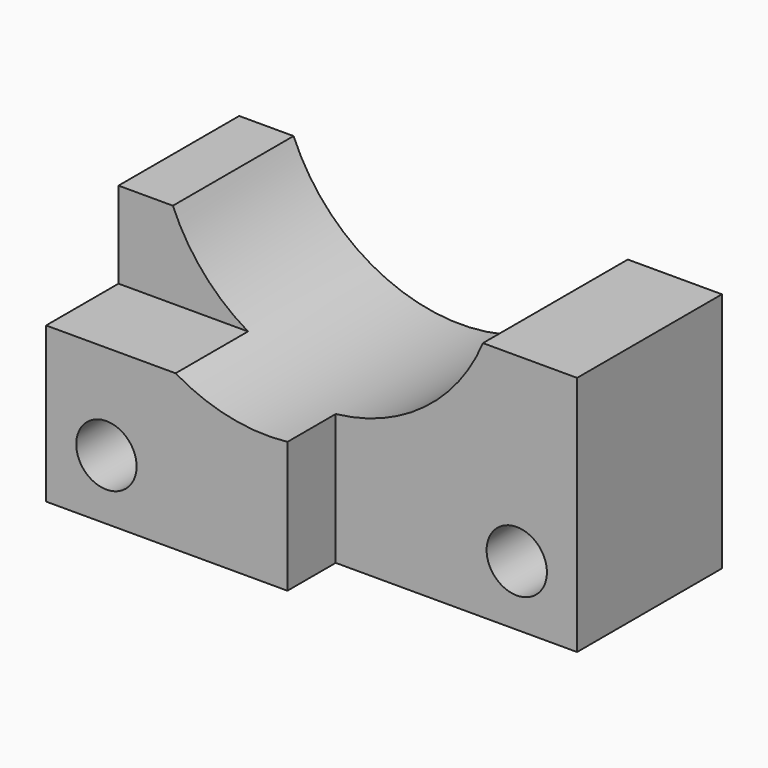
from build123d import *

# Parameters (mm, degrees)
F0_R     = 5
F1_DEPTH = 40
F2_R     = 5
F3_DEPTH = 10
F5_DEPTH = 15


with BuildPart() as f1:
    # F0 (on Front) → F1 (new body)
    with BuildSketch(Plane.XZ):
        with BuildLine():
            Line((-23.440344, 48.342409), (-32.454428, 48.342409))
            Line((-32.454428, 48.342409), (-32.454428, 8.342409))
            Line((-32.454428, 8.342409), (47.545572, 8.342409))
            Line((47.545572, 8.342409), (47.545572, 48.342409))
            Line((47.545572, 48.342409), (31.944597, 48.342409))
            ThreePointArc((31.944597, 48.342409), (4.252126, 29.880481), (-23.440344, 48.342409))
        make_face()
        with Locations((-22.454428, 18.342409)):
            Circle(F0_R, mode=Mode.SUBTRACT)
        with Locations((37.545572, 18.342409)):
            Circle(F0_R, mode=Mode.SUBTRACT)
    extrude(amount=F1_DEPTH)

    # F2 (on face) → F3 (cut)
    with BuildSketch(Plane.XZ.offset(40)):
        with BuildLine():
            ThreePointArc((31.944597, 48.342409), (22.240368, 35.871666), (7.545572, 30.061809))
            Line((7.545572, 30.061809), (7.545572, 8.342409))
            Line((7.545572, 8.342409), (47.545572, 8.342409))
            Line((47.545572, 8.342409), (47.545572, 48.342409))
            Line((47.545572, 48.342409), (31.944597, 48.342409))
        make_face()
        with Locations((37.545572, 18.342409)):
            Circle(F2_R, mode=Mode.SUBTRACT)
    extrude(amount=-F3_DEPTH, mode=Mode.SUBTRACT)

    # F4 (on face) → F5 (cut)
    with BuildSketch(Plane.XZ.offset(40)):
        Polygon((-32.454428, 34.042006), (-10.991666, 34.042006), (-23.440344, 48.342409), (-32.454428, 48.342409), align=None)
        Polygon((-32.454428, 34.042006), (-10.991666, 34.042006), (-23.440344, 48.342409), (-32.454428, 48.342409), align=None)
    extrude(amount=-F5_DEPTH, mode=Mode.SUBTRACT)


solid = f1.part
